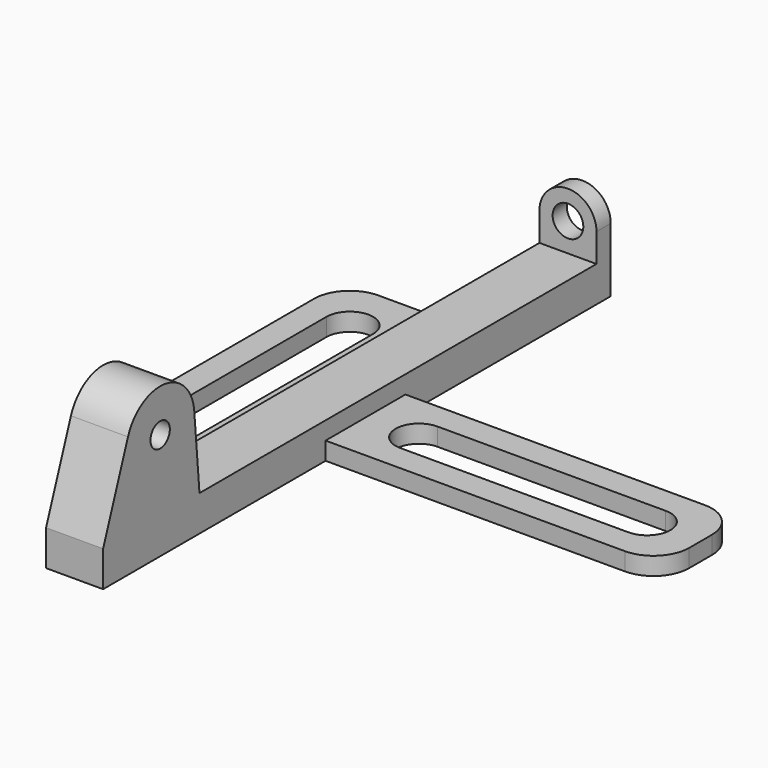
from build123d import *

# Parameters (mm, degrees)
SKETCH_W                = 8
SKETCH_H                = 89
PAD_DEPTH               = 5
PAD001_DEPTH            = 2.5
SKETCH005_R             = 2.15
POCKET_DEPTH            = 89.001
PAD002_DEPTH            = 8
SKETCH007_R             = 1.7
HOLE_DEPTH              = 8.001
SKETCH010_W             = 14
SKETCH010_H             = 47
PAD003_DEPTH            = 2.5
POCKET001_DEPTH         = 2.501
FILLET_R                = 5
SKETCH013_W             = 14
SKETCH013_H             = 47
PAD004_DEPTH            = 2.5
POCKET002_DEPTH         = 2.501
FILLET001_R             = 5
BODY002_PLACEMENT_ANGLE = 90


with BuildPart() as obj1:
    # Sketch → Pad (new body)
    with BuildSketch(Plane.XY):
        with Locations((0, 44.5)):
            Rectangle(SKETCH_W, SKETCH_H)
    extrude(amount=PAD_DEPTH)

    # Sketch004 → Pad001 (join)
    with BuildSketch(Plane(origin=(0, 89, 0), x_dir=(-1, 0, 0), z_dir=(0, 1, 0))):
        with BuildLine():
            ThreePointArc((4, 9), (0, 13), (-4, 9))
            Line((-4, 9), (-4, 5))
            Line((4, 5), (-4, 5))
            Line((4, 9), (4, 5))
        make_face()
    extrude(amount=-PAD001_DEPTH)

    # Sketch005 (on Face10 of Pad001) → Pocket (cut, through all)
    with BuildSketch(Plane(origin=(0, 89, 0), x_dir=(-1, 0, 0), z_dir=(0, 1, 0))):
        with Locations((0, 9)):
            Circle(SKETCH005_R)
    extrude(amount=-POCKET_DEPTH, mode=Mode.SUBTRACT)

    # Sketch006 (on Face2 of Pocket) → Pad002 (join)
    with BuildSketch(Plane(origin=(-4, 0, 0), x_dir=(0, -1, 0), z_dir=(-1, 0, 0))):
        with BuildLine():
            ThreePointArc((-4.358125, 17.041875), (-10.777753, 20.949378), (-15.977168, 15.522934))
            Line((-15.977168, 15.522934), (-16.897806, 5))
            Line((-16.897806, 5), (0, 5))
            Line((-4.358125, 17.041875), (0, 5))
        make_face()
    extrude(amount=-PAD002_DEPTH)

    # Sketch007 (on Face9 of Pad002) → Hole (cut, through all)
    with BuildSketch(Plane(origin=(-4, 0, 0), x_dir=(0, -1, 0), z_dir=(-1, 0, 0))):
        with Locations((-10, 15)):
            Circle(SKETCH007_R)
    extrude(amount=-HOLE_DEPTH, mode=Mode.SUBTRACT)


with BuildPart() as vert_slot:
    # Sketch010 → Pad003 (new body)
    with BuildSketch(Plane.XY):
        Rectangle(SKETCH010_W, SKETCH010_H)
    extrude(amount=PAD003_DEPTH)

    # Sketch011 (on Face6 of Pad003) → Pocket001 (cut, through all)
    with BuildSketch(Plane.XY.offset(2.5)):
        with BuildLine():
            ThreePointArc((3.265, 16), (0, 19.265), (-3.265, 16))
            Line((-3.265, 16), (-3.265, -16))
            ThreePointArc((-3.265, -16), (0, -19.265), (3.265, -16))
            Line((3.265, 16), (3.265, -16))
        make_face()
    extrude(amount=-POCKET001_DEPTH, mode=Mode.SUBTRACT)

    # Fillet
    fillet_edges = [vert_slot.edges().sort_by_distance(p)[0] for p in [
        (-7, 23.5, 1.25),
        (-7, -23.5, 1.25),
    ]]
    fillet(fillet_edges, radius=FILLET_R)


with BuildPart() as vert_slot_1:
    # Body001 placement: moved
    add(vert_slot.part.moved(Location((-11, 46, 0))))


with BuildPart() as obj2:
    # Sketch013 → Pad004 (new body)
    with BuildSketch(Plane.XY):
        Rectangle(SKETCH013_W, SKETCH013_H)
    extrude(amount=PAD004_DEPTH)

    # Sketch012 (on Face6 of Pad004) → Pocket002 (cut, through all)
    with BuildSketch(Plane.XY.offset(2.5)):
        with BuildLine():
            ThreePointArc((3.265, 16), (0, 19.265), (-3.265, 16))
            Line((-3.265, 16), (-3.265, -16))
            ThreePointArc((-3.265, -16), (0, -19.265), (3.265, -16))
            Line((3.265, 16), (3.265, -16))
        make_face()
    extrude(amount=-POCKET002_DEPTH, mode=Mode.SUBTRACT)

    # Fillet001
    fillet001_edges = [obj2.edges().sort_by_distance(p)[0] for p in [
        (-7, 23.5, 1.25),
        (7, 23.5, 1.25),
    ]]
    fillet(fillet001_edges, radius=FILLET001_R)


with BuildPart() as obj2_1:
    # Body002 placement: moved
    add(obj2.part.moved(Location((27.5, 46, 0))).rotate(Axis((27.5, 46, 0), (0, 0, -1)), BODY002_PLACEMENT_ANGLE))


solid = Compound([obj1.part, vert_slot_1.part, obj2_1.part])
